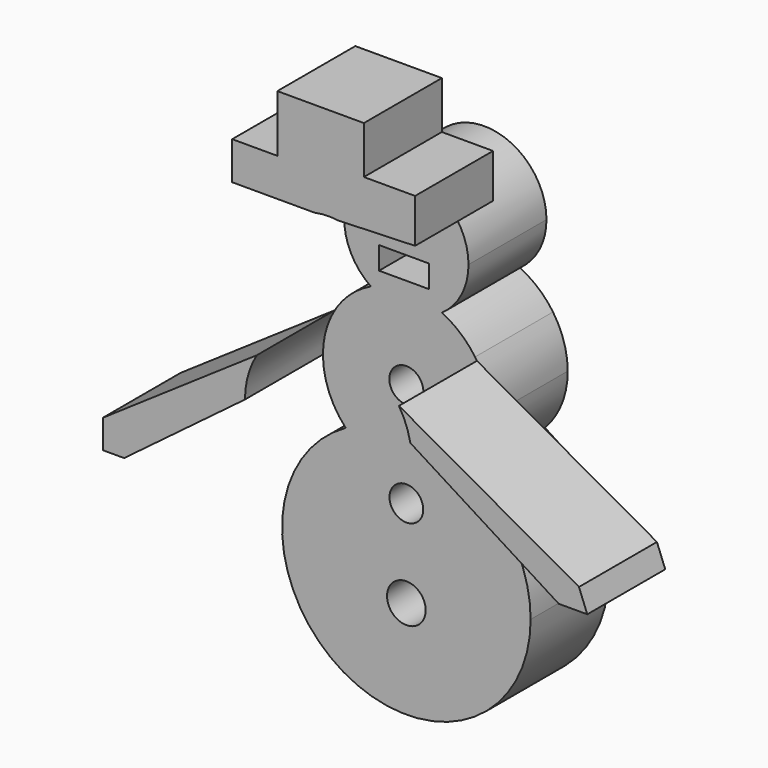
from build123d import *

# Parameters (mm, degrees)
F0_R      = 2.8536008332
F0_R_2    = 4.0356012678
F1_DEPTH  = 25.4
F2_W      = 12.9996906035
F2_H      = 5.8808140457
F3_DEPTH  = 25.4
F4_R      = 4.4343033165
F4_R_2    = 4.3990558924
F4_R_3    = 5.038563347
F5_DEPTH  = 25.4
F7_DEPTH  = 25.4
F9_DEPTH  = 25.4
F11_DEPTH = 25.4


with BuildPart() as f1:
    # F0 (on Front) → F1 (new body)
    with BuildSketch(Plane.XZ):
        with BuildLine():
            ThreePointArc((15.8172677796, -14.9105895849), (20.2031786749, -8.021422144), (21.7373329041, 0))
            ThreePointArc((21.7373329041, 0), (20.7561218785, 6.4571701502), (17.9010714334, 12.3313942164))
            ThreePointArc((17.9010714334, 12.3313942164), (14.0634805526, 16.5749858682), (9.2515846168, 19.6702776763))
            ThreePointArc((9.2515846168, 19.6702776763), (0, 16.767772755), (-9.2515846168, 19.6702776763))
            ThreePointArc((-9.2515846168, 19.6702776763), (-14.2062358877, 16.4527962269), (-18.1115831207, 12.0200748186))
            ThreePointArc((-18.1115831207, 12.0200748186), (-21.6588758286, -1.845193655), (-15.8172677796, -14.9105895849))
            ThreePointArc((-15.8172677796, -14.9105895849), (0, -10.7860838011), (15.8172677796, -14.9105895849))
        make_face()
        with BuildLine():
            ThreePointArc((32.3914575442, -43.1775413454), (27.9423592382, -26.7936748284), (15.8172677796, -14.9105895849))
            ThreePointArc((15.8172677796, -14.9105895849), (0, -21.7373329041), (-15.8172677796, -14.9105895849))
            ThreePointArc((-15.8172677796, -14.9105895849), (-16.3838665169, -71.1199005835), (32.3914575442, -43.1775413454))
        make_face()
        with BuildLine():
            ThreePointArc((-15.8172677796, -14.9105895849), (0, -21.7373329041), (15.8172677796, -14.9105895849))
            ThreePointArc((15.8172677796, -14.9105895849), (0, -10.7860838011), (-15.8172677796, -14.9105895849))
        make_face()
        with BuildLine():
            ThreePointArc((-9.2515846168, 19.6702776763), (0, 16.767772755), (9.2515846168, 19.6702776763))
            ThreePointArc((9.2515846168, 19.6702776763), (0, 21.7373329041), (-9.2515846168, 19.6702776763))
        make_face()
        with BuildLine():
            ThreePointArc((-9.2515846168, 19.6702776763), (0, 21.7373329041), (9.2515846168, 19.6702776763))
            ThreePointArc((9.2515846168, 19.6702776763), (14.3550983655, 25.4646519589), (16.1957266719, 32.9634994268))
            ThreePointArc((16.1957266719, 32.9634994268), (-7.498847468, 47.3185977923), (-9.2515846168, 19.6702776763))
        make_face()
        with Locations((-8.9759770781, 40.7014116645)):
            Circle(F0_R, mode=Mode.SUBTRACT)
        with Locations((3.7141984794, 40.0823801756)):
            Circle(F0_R_2, mode=Mode.SUBTRACT)
    extrude(amount=F1_DEPTH)

    # F2 (on face) → F3 (cut)
    with BuildSketch(Plane.XZ.offset(25.4)):
        with Locations((-0.6190321874, 26.9279312342)):
            Rectangle(F2_W, F2_H)
    extrude(amount=-F3_DEPTH, mode=Mode.SUBTRACT)

    # F4 (on face) → F5 (cut)
    with BuildSketch(Plane.XZ.offset(25.4)):
        Circle(F4_R)
        with Locations((0, -27.0826891065)):
            Circle(F4_R_2)
        with Locations((0, -49.9869063497)):
            Circle(F4_R_3)
    extrude(amount=-F5_DEPTH, mode=Mode.SUBTRACT)


with BuildPart() as f7:
    # F6 (on face) → F7 (new body)
    with BuildSketch(Plane.XZ.offset(25.4)):
        with BuildLine():
            Line((-25.0708362817, 48.766700526), (-3.5440651025, 48.766700526))
            ThreePointArc((-3.5440651025, 48.766700526), (-0.5639242648, 49.1494053902), (2.4356253039, 48.975035637))
            Line((2.4356253039, 48.975035637), (22.5946996361, 49.6773868799))
            Line((22.5946996361, 49.6773868799), (22.5946996361, 61.1294955015))
            Line((22.5946996361, 61.1294955015), (9.2515846168, 61.1294955015))
            Line((9.2515846168, 61.1294955015), (9.2515846168, 73.5101550817))
            Line((9.2515846168, 73.5101550817), (-13.3092068136, 73.5101550817))
            Line((-13.3092068136, 73.5101550817), (-13.3092068136, 58.6533658206))
            Line((-13.3092068136, 58.6533658206), (-25.0708362817, 58.6533658206))
            Line((-25.0708362817, 58.6533658206), (-25.0708362817, 48.766700526))
        make_face()
    extrude(amount=F7_DEPTH)


with BuildPart() as f9:
    # F8 (on face) → F9 (new body)
    with BuildSketch(Plane.XZ.offset(25.4)):
        with BuildLine():
            Line((65.3079748154, -14.7020313889), (18.3878017668, 11.5931181297))
            ThreePointArc((18.3878017668, 11.5931181297), (20.2261142875, 7.9634127491), (21.3558173633, 4.0547141121))
            Line((21.3558173633, 4.0547141121), (60.0461885333, -20.2733278275))
            Line((60.0461885333, -20.2733278275), (67.4745887518, -20.2733278275))
            Line((67.4745887518, -20.2733278275), (65.3079748154, -14.7020313889))
        make_face()
    extrude(amount=F9_DEPTH)


with BuildPart() as f11:
    # F10 (on face) → F11 (new body)
    with BuildSketch(Plane.XZ.offset(25.4)):
        with BuildLine():
            ThreePointArc((-21.7373329041, 0), (-20.9512654201, 5.7927643728), (-18.6499146613, 11.1665717617))
            Line((-18.6499146613, 11.1665717617), (-58.8081255555, -16.2496138364))
            Line((-58.8081255555, -16.2496138364), (-58.8081255555, -23.678008467))
            Line((-58.8081255555, -23.678008467), (-53.2368272543, -23.678008467))
            Line((-53.2368272543, -23.678008467), (-21.7373329041, 0))
        make_face()
    extrude(amount=F11_DEPTH)


solid = Compound([f1.part, f7.part, f9.part, f11.part])
